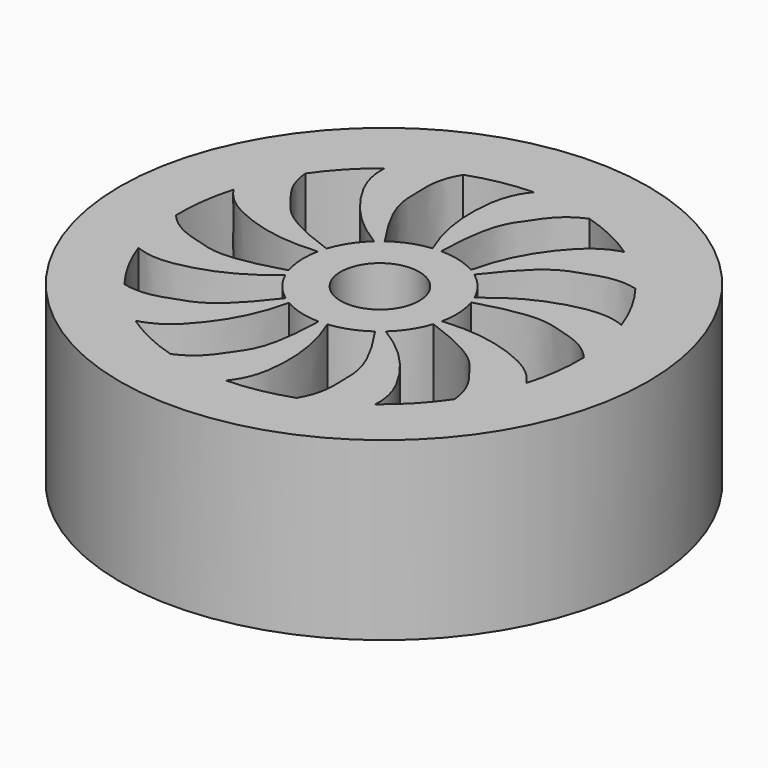
from build123d import *

# Parameters (mm, degrees)
F0_R      = 22.5
F1_DEPTH  = 15
F4_DEPTH  = 15.001
F5_COUNT  = 10
F6_R      = 22.5
F6_R_2    = 17
F7_DEPTH  = 15
F8_R      = 6.5
F9_DEPTH  = 15
F10_R     = 17.5
F11_DEPTH = 8
F12_R     = 3.35
F13_DEPTH = 15.001


with BuildPart() as f1:
    # F0 (on Top) → F1 (new body)
    with BuildSketch(Plane.XY):
        Circle(F0_R)
    extrude(amount=F1_DEPTH)

    # F3 (on face) → F4 (intersect, through all)
    with BuildSketch(Plane.XY.offset(15)):
        with BuildLine():
            add(Edge.make_bspline(
                [(0, 5), (-1.6594429625, 8.1974445219), (-2.2224256954, 12.5756418186), (-1.4118038391, 16.1367912162), (0, 17.5)],
                knots=[0, 0, 0, 0, 0.558748051, 1, 1, 1, 1], degree=3))
            add(Edge.make_bspline(
                [(0, 5), (0, 11.4112731083), (1.5845518909, 12.9119199414), (3.2044574006, 15.844323381), (5.550772459, 16.5963527652)],
                knots=[0, 0, 0, 0, 0.5763512742, 1, 1, 1, 1], degree=3))
            ThreePointArc((5.550772459, 16.5963527652), (2.8119234172, 17.2726108824), (0, 17.5))
        make_face()
    extrude(amount=-F4_DEPTH, mode=Mode.INTERSECT)


with BuildPart() as f5_1:
    # F5: instance of F1
    add(f1.part.rotate(Axis((0, 0, 3.1808521599), (0, 0, -1)), 1 * 360 / F5_COUNT))


with BuildPart() as f5_2:
    # F5: instance of F1
    add(f1.part.rotate(Axis((0, 0, 3.1808521599), (0, 0, -1)), 2 * 360 / F5_COUNT))


with BuildPart() as f5_3:
    # F5: instance of F1
    add(f1.part.rotate(Axis((0, 0, 3.1808521599), (0, 0, -1)), 3 * 360 / F5_COUNT))


with BuildPart() as f5_4:
    # F5: instance of F1
    add(f1.part.rotate(Axis((0, 0, 3.1808521599), (0, 0, -1)), 4 * 360 / F5_COUNT))


with BuildPart() as f5_5:
    # F5: instance of F1
    add(f1.part.rotate(Axis((0, 0, 3.1808521599), (0, 0, -1)), 5 * 360 / F5_COUNT))


with BuildPart() as f5_6:
    # F5: instance of F1
    add(f1.part.rotate(Axis((0, 0, 3.1808521599), (0, 0, -1)), 6 * 360 / F5_COUNT))


with BuildPart() as f5_7:
    # F5: instance of F1
    add(f1.part.rotate(Axis((0, 0, 3.1808521599), (0, 0, -1)), 7 * 360 / F5_COUNT))


with BuildPart() as f5_8:
    # F5: instance of F1
    add(f1.part.rotate(Axis((0, 0, 3.1808521599), (0, 0, -1)), 8 * 360 / F5_COUNT))


with BuildPart() as f5_9:
    # F5: instance of F1
    add(f1.part.rotate(Axis((0, 0, 3.1808521599), (0, 0, -1)), 9 * 360 / F5_COUNT))


with BuildPart() as f1_1:
    add(f1.part)

    add(f5_1.part)  # F7 merges F5_1

    add(f5_2.part)  # F7 merges F5_2

    add(f5_3.part)  # F7 merges F5_3

    add(f5_4.part)  # F7 merges F5_4

    add(f5_5.part)  # F7 merges F5_5

    add(f5_6.part)  # F7 merges F5_6

    add(f5_7.part)  # F7 merges F5_7

    add(f5_8.part)  # F7 merges F5_8

    add(f5_9.part)  # F7 merges F5_9
    # F6 (on face) → F7 (join)
    with BuildSketch(Plane.XY.offset(15)):
        with Locations((0, 0.4344416666)):
            Circle(F6_R)
        Circle(F6_R_2, mode=Mode.SUBTRACT)
    extrude(amount=-F7_DEPTH)

    # F8 (on face) → F9 (join)
    with BuildSketch(Plane.XY.offset(15)):
        Circle(F8_R)
    extrude(amount=-F9_DEPTH)

    # F10 (on face) → F11 (cut)
    with BuildSketch(Plane(origin=(0, 0, 0), x_dir=(1, 0, 0), z_dir=(0, 0, -1))):
        Circle(F10_R)
    extrude(amount=-F11_DEPTH, mode=Mode.SUBTRACT)

    # F12 (on face) → F13 (cut, through all)
    with BuildSketch(Plane.XY.offset(15)):
        Circle(F12_R)
    extrude(amount=-F13_DEPTH, mode=Mode.SUBTRACT)


solid = f1_1.part
